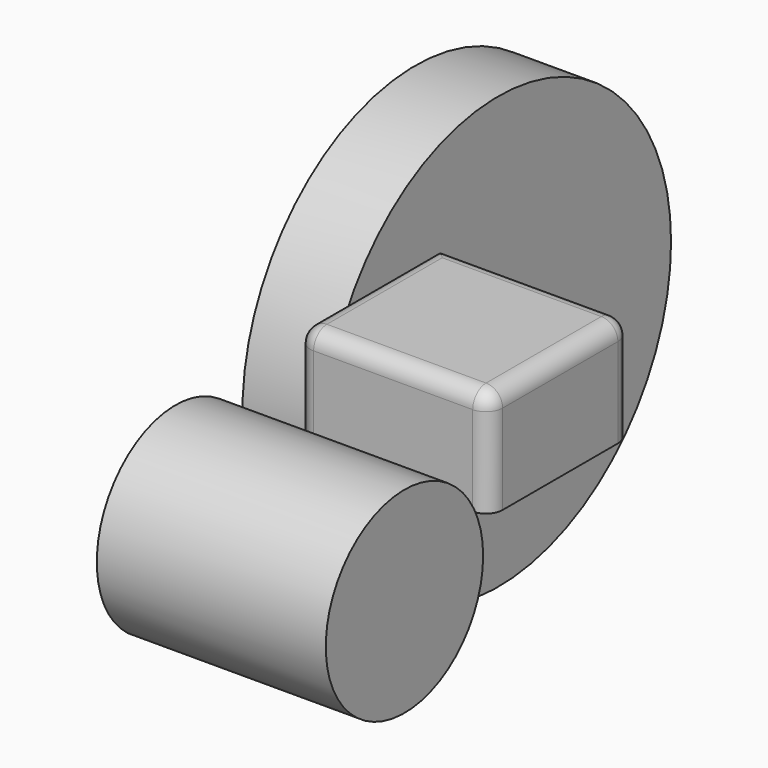
from build123d import *

# Parameters (mm, degrees)
F0_W     = 54.223113
F0_H     = 32.518405
F1_DEPTH = 58.82041
F2_R     = 5.08
F3_R     = 30.080607
F4_DEPTH = 70.0362
F5_R     = 66.059765
F6_DEPTH = 25.4


with BuildPart() as f1:
    # F0 (on Right) → F1 (new body)
    with BuildSketch(Plane.YZ):
        with Locations((27.111556, 16.259203)):
            Rectangle(F0_W, F0_H)
    extrude(amount=F1_DEPTH)

    # F2
    f2_edges = [f1.edges().sort_by_distance(p)[0] for p in [
        (29.410205, 0, 32.518405),
        (58.82041, 27.111556, 32.518405),
        (29.410205, 54.223113, 32.518405),
        (0, 27.111556, 32.518405),
        (58.82041, 0, 16.259203),
        (58.82041, 54.223113, 16.259203),
        (0, 0, 16.259203),
    ]]
    fillet(f2_edges, radius=F2_R)

    # F5 (on Right) → F6 (join)
    with BuildSketch(Plane.YZ):
        with Locations((76.945178, -2.992762)):
            Circle(F5_R)
    extrude(amount=-F6_DEPTH)


with BuildPart() as f4:
    # F3 (on Right) → F4 (new body)
    with BuildSketch(Plane.YZ):
        with Locations((-46.47696, 0)):
            Circle(F3_R)
    extrude(amount=F4_DEPTH)


solid = Compound([f1.part, f4.part])
